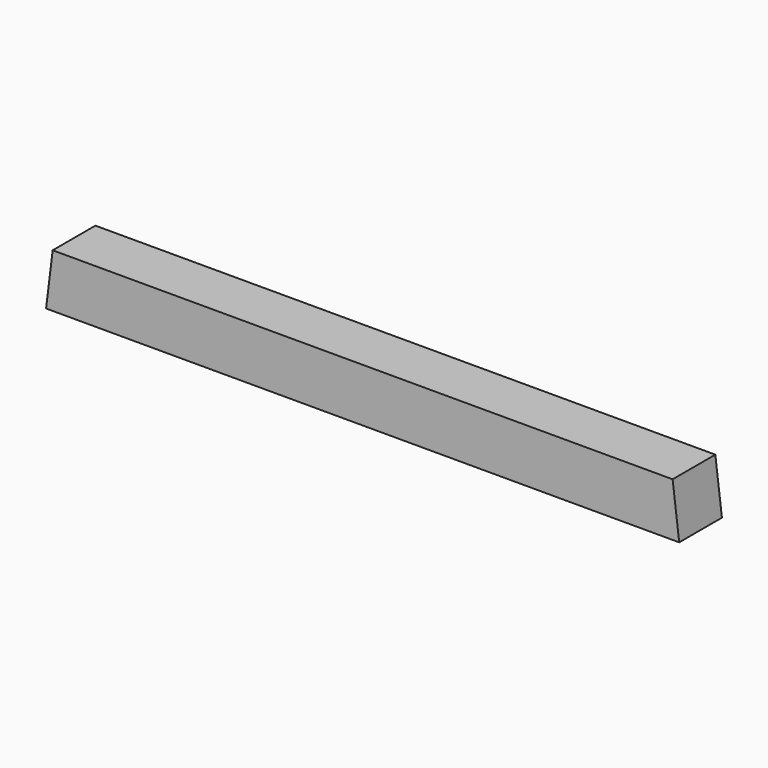
from build123d import *

# Parameters (mm, degrees)
F0_W     = 589.788
F0_H     = 50.8
F1_DEPTH = 50.8
F2_DEPTH = 50.8
F3_DEPTH = 50.8


with BuildPart() as f1:
    # F0 (on Front) → F1 (new body)
    with BuildSketch(Plane.XZ):
        with Locations((294.894, 25.4)):
            Rectangle(F0_W, F0_H)
    extrude(amount=F1_DEPTH)

    # F0 (on Front) → F2 (join)
    with BuildSketch(Plane.XZ):
        Polygon((589.788, 50.8), (589.788, 0), (596.061459, 0), align=None)
    extrude(amount=F2_DEPTH)

    # F0 (on Front) → F3 (join)
    with BuildSketch(Plane.XZ):
        Polygon((-6.273459, 0), (0, 0), (0, 50.8), align=None)
    extrude(amount=F3_DEPTH)


solid = f1.part
